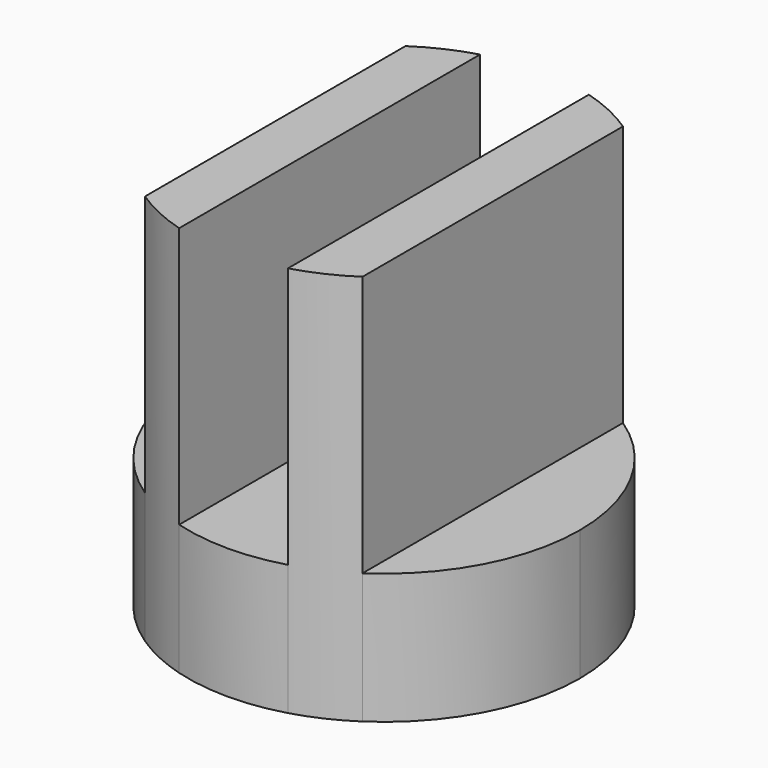
from build123d import *

# Parameters (mm, degrees)
F1_DEPTH = 3
F2_DEPTH = 9


with BuildPart() as f1:
    # F0 (on Top) → F1 (new body)
    with BuildSketch(Plane.XY):
        with BuildLine():
            Line((-2.5, -3.741657), (-2.5, 3.741657))
            ThreePointArc((-2.5, 3.741657), (-4.5, 0), (-2.5, -3.741657))
        make_face()
        with BuildLine():
            Line((1.25, -4.322904), (1.25, 4.322904))
            ThreePointArc((1.25, 4.322904), (0, 4.5), (-1.25, 4.322904))
            Line((-1.25, 4.322904), (-1.25, -4.322904))
            ThreePointArc((-1.25, -4.322904), (0, -4.5), (1.25, -4.322904))
        make_face()
        with BuildLine():
            ThreePointArc((2.5, -3.741657), (3.968627, -2.12132), (4.5, 0))
            ThreePointArc((4.5, 0), (3.968627, 2.12132), (2.5, 3.741657))
            Line((2.5, 3.741657), (2.5, -3.741657))
        make_face()
    extrude(amount=F1_DEPTH)

    # F0 (on Top) → F2 (join)
    with BuildSketch(Plane.XY):
        with BuildLine():
            Line((-1.25, -4.322904), (-1.25, 4.322904))
            ThreePointArc((-1.25, 4.322904), (-1.89739, 4.08043), (-2.5, 3.741657))
            Line((-2.5, 3.741657), (-2.5, -3.741657))
            ThreePointArc((-2.5, -3.741657), (-1.89739, -4.08043), (-1.25, -4.322904))
        make_face()
        with BuildLine():
            Line((2.5, -3.741657), (2.5, 3.741657))
            ThreePointArc((2.5, 3.741657), (1.89739, 4.08043), (1.25, 4.322904))
            Line((1.25, 4.322904), (1.25, -4.322904))
            ThreePointArc((1.25, -4.322904), (1.89739, -4.08043), (2.5, -3.741657))
        make_face()
    extrude(amount=F2_DEPTH)


solid = f1.part
